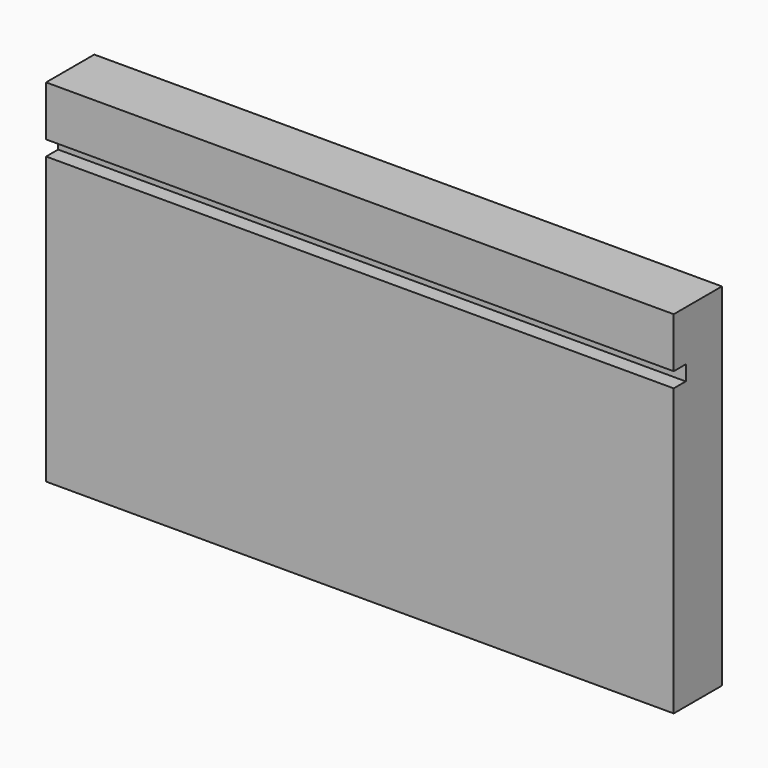
from build123d import *

# Parameters (mm, degrees)
F1_DEPTH = 25
F2_DEPTH = 25
F3_DEPTH = 25
F4_DEPTH = 25
F5_DEPTH = 25


with BuildPart() as f1:
    # F0 (on Right) → F1 (new body)
    with BuildSketch(Plane.YZ):
        Polygon((0, 57), (0, 0), (12, 0), (12, 70), (0, 70), (0, 60), (3, 60), (3, 57), align=None)
    extrude(amount=F1_DEPTH)

    # F2 (add): a face of the model
    f2_faces = [f1.faces().sort_by_distance(p)[0] for p in [
        (25, 6.0487364621, 34.7454873646),
    ]]
    extrude(f2_faces, amount=F2_DEPTH)

    # F3 (add): a face of the model
    f3_faces = [f1.faces().sort_by_distance(p)[0] for p in [
        (50, 6.0487364621, 34.7454873646),
    ]]
    extrude(f3_faces, amount=F3_DEPTH)

    # F4 (add): a face of the model
    f4_faces = [f1.faces().sort_by_distance(p)[0] for p in [
        (75, 6.0487364621, 34.7454873646),
    ]]
    extrude(f4_faces, amount=F4_DEPTH)

    # F5 (add): a face of the model
    f5_faces = [f1.faces().sort_by_distance(p)[0] for p in [
        (100, 6.0487364621, 34.7454873646),
    ]]
    extrude(f5_faces, amount=F5_DEPTH)


solid = f1.part
